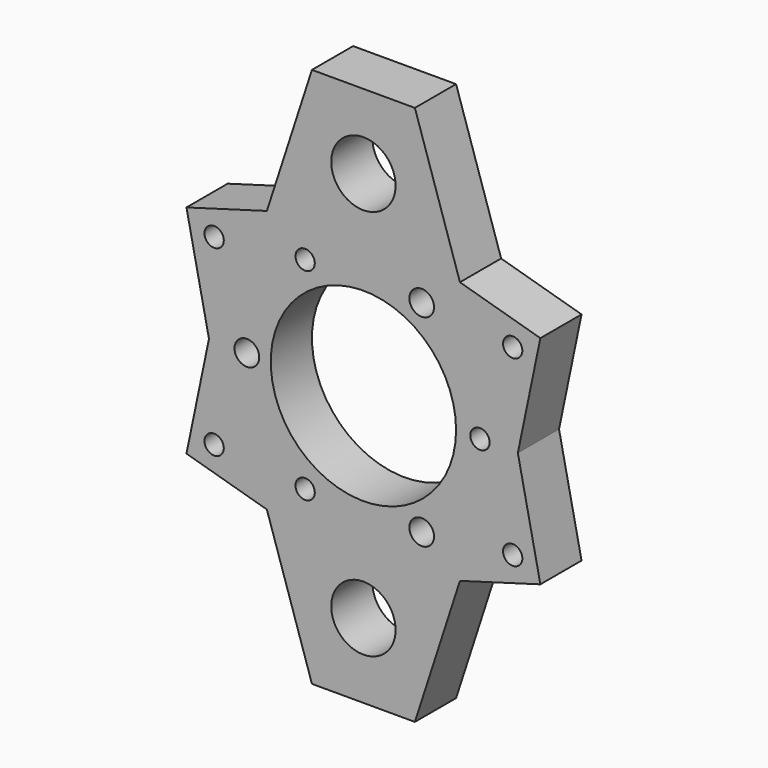
from build123d import *

# Parameters (mm, degrees)
F1_R     = 4.7625
F1_R_2   = 15.875
F1_R_3   = 6.096
F1_R_4   = 45.72
F2_DEPTH = 25.4


with BuildPart() as f2:
    # F1 (on face) → F2 (new body)
    with BuildSketch(Plane.XZ):
        Polygon((-47.625, 64.844321), (-87.302212, 53.469552), (-76.2, 0), (-87.297388, -53.469552), (-47.625, -64.844321), (-25.4, -133.35), (25.4, -133.35), (47.625, -64.844321), (87.302212, -53.469552), (76.2, 0), (87.302212, 53.469552), (47.625, 64.844321), (25.4, 133.35), (-25.4, 133.35), align=None)
        with Locations((-73.643908, -45.106811)):
            Circle(F1_R, mode=Mode.SUBTRACT)
        with Locations((-28.75, -49.796461)):
            Circle(F1_R, mode=Mode.SUBTRACT)
        with Locations((0, -96.52)):
            Circle(F1_R_2, mode=Mode.SUBTRACT)
        with Locations((28.75, -49.796461)):
            Circle(F1_R_3, mode=Mode.SUBTRACT)
        with Locations((73.645018, -45.104998)):
            Circle(F1_R, mode=Mode.SUBTRACT)
        with Locations((-57.5, 0)):
            Circle(F1_R_3, mode=Mode.SUBTRACT)
        with Locations((-73.645018, 45.104998)):
            Circle(F1_R, mode=Mode.SUBTRACT)
        with Locations((-28.75, 49.796461)):
            Circle(F1_R, mode=Mode.SUBTRACT)
        Circle(F1_R_4, mode=Mode.SUBTRACT)
        with Locations((28.75, 49.796461)):
            Circle(F1_R_3, mode=Mode.SUBTRACT)
        with Locations((57.5, 0)):
            Circle(F1_R, mode=Mode.SUBTRACT)
        with Locations((73.645018, 45.104998)):
            Circle(F1_R, mode=Mode.SUBTRACT)
        with Locations((0, 96.52)):
            Circle(F1_R_2, mode=Mode.SUBTRACT)
    extrude(amount=F2_DEPTH)


solid = f2.part
